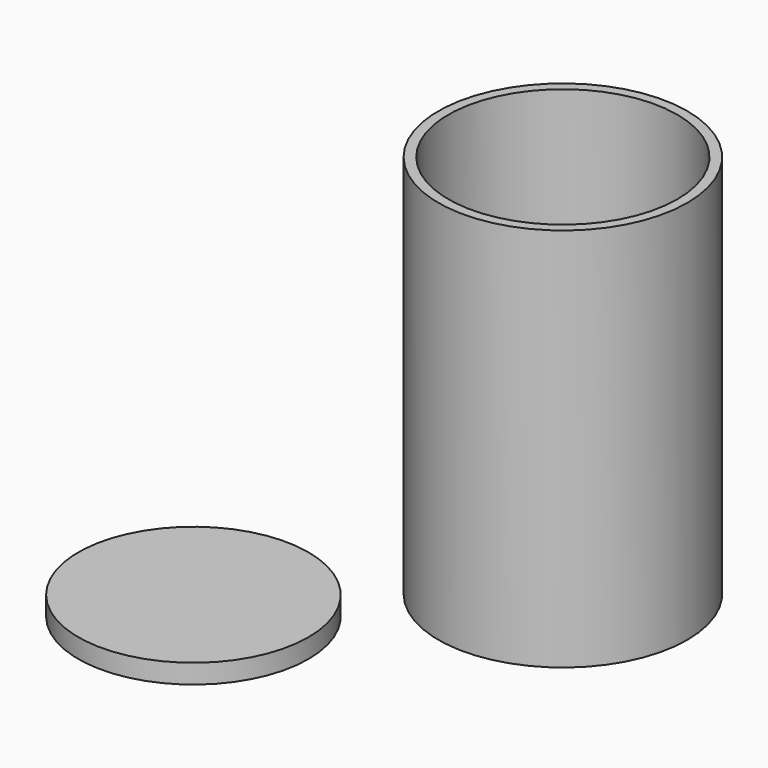
from build123d import *

# Parameters (mm, degrees)
F0_R     = 24.639395
F1_DEPTH = 76.2
F2_R     = 22.680622
F3_DEPTH = 69.85
F4_R     = 22.78501
F5_DEPTH = 3.81


with BuildPart() as f1:
    # F0 (on Top) → F1 (new body)
    with BuildSketch(Plane.XY):
        Circle(F0_R)
    extrude(amount=F1_DEPTH)

    # F2 (on face) → F3 (cut)
    with BuildSketch(Plane.XY.offset(76.2)):
        Circle(F2_R)
    extrude(amount=-F3_DEPTH, mode=Mode.SUBTRACT)


with BuildPart() as f5:
    # F4 (on Top) → F5 (new body)
    with BuildSketch(Plane.XY):
        with Locations((-39.889749, -41.602127)):
            Circle(F4_R)
    extrude(amount=F5_DEPTH)


solid = Compound([f1.part, f5.part])
